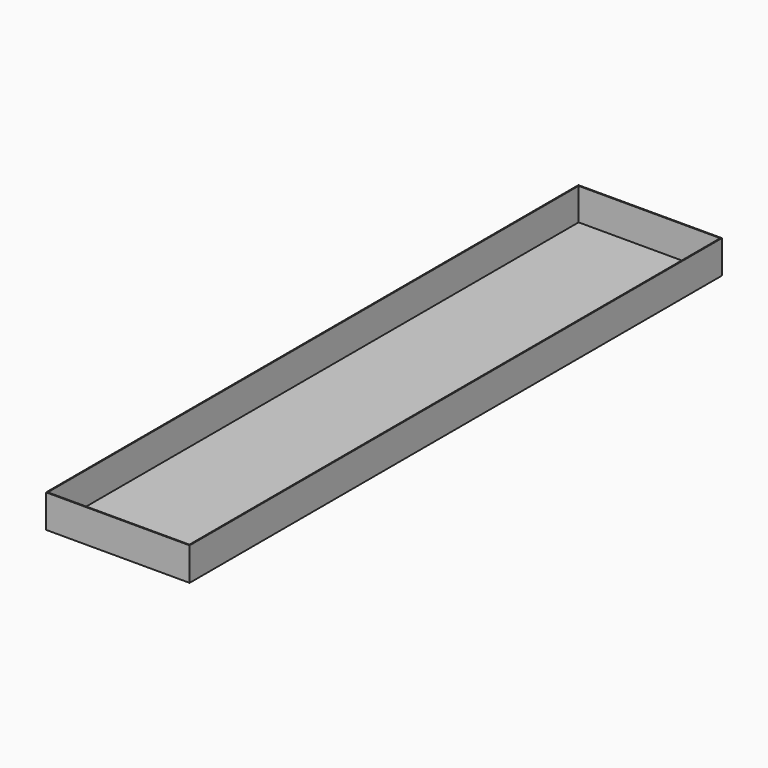
from build123d import *

# Parameters (mm, degrees)
F0_W     = 388.224341
F0_H     = 89.349538
F1_DEPTH = 900
F2_T     = -2.5


with BuildPart() as f1:
    # F0 (on Front) → F1 (new body, symmetric)
    with BuildSketch(Plane.XZ):
        with Locations((-19.901085, 0)):
            Rectangle(F0_W, F0_H)
    extrude(amount=F1_DEPTH, both=True)

    # F2
    f2_openings = [f1.faces().sort_by_distance(p)[0] for p in [
        (-19.901086, 0, 44.674769),
    ]]
    offset(amount=F2_T, openings=f2_openings)


solid = f1.part
